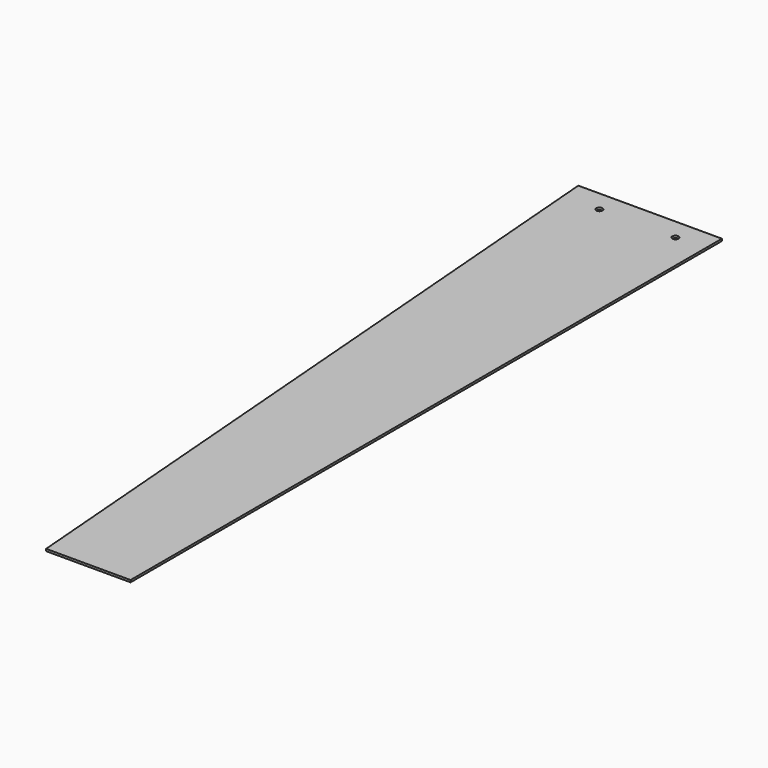
from build123d import *

# Parameters (mm, degrees)
F0_R     = 1.5
F1_DEPTH = 1


with BuildPart() as f1:
    # F0 (on Top) → F1 (new body)
    with BuildSketch(Plane.XY):
        Polygon((19.833578, 172.248422), (-48.166422, 172.248422), (-20.166422, -177.751578), (19.833578, -177.751578), align=None)
        with Locations((-30.166422, 162.248422)):
            Circle(F0_R, mode=Mode.SUBTRACT)
        with Locations((5.833578, 162.248422)):
            Circle(F0_R, mode=Mode.SUBTRACT)
    extrude(amount=F1_DEPTH)


solid = f1.part
